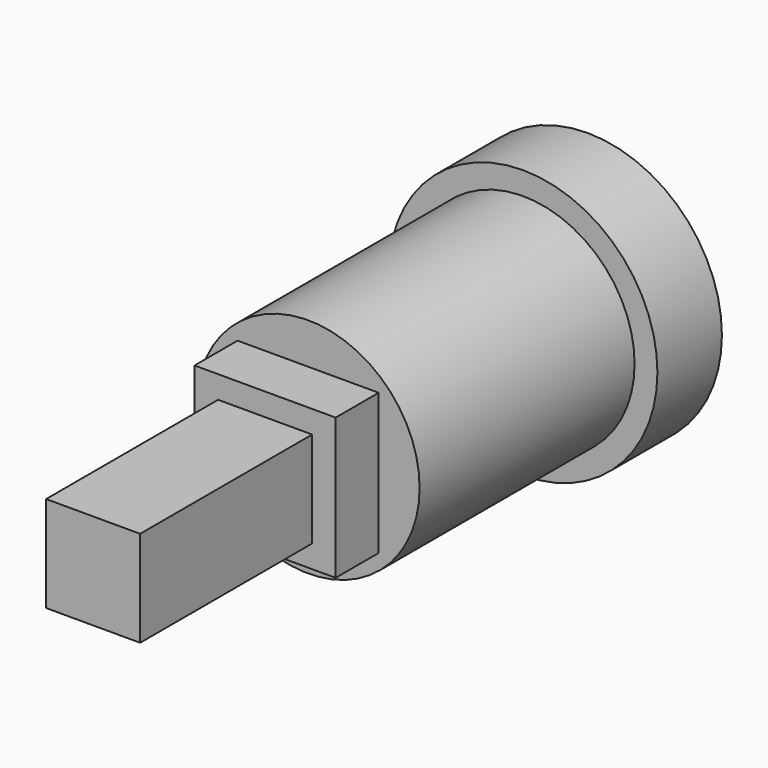
from build123d import *

# Parameters (mm, degrees)
F0_W          = 3.5
F0_H          = 3.5707142143
F0_R          = 1
F1_DEPTH      = 11
F0_W_2        = 5.25
F0_H_2        = 5.25
F2_DEPTH      = 3
F0_R_2        = 4.15
F3_DEPTH      = 8
F3_DEPTH_BACK = 1
F4_DEPTH      = 12
F5_DEPTH      = 4
F6_START      = -9
F0_R_3        = 5
F6_DEPTH      = 3


with BuildPart() as f1:
    # F0 (on Front) → F1 (new body)
    with BuildSketch(Plane.XZ):
        Rectangle(F0_W, F0_H)
        Circle(F0_R, mode=Mode.SUBTRACT)
        Circle(F0_R)
    extrude(amount=F1_DEPTH)

    # F0 (on Front) → F2 (join)
    with BuildSketch(Plane.XZ):
        Rectangle(F0_W_2, F0_H_2)
        with BuildLine():
            ThreePointArc((1.75, 1.7853571071), (2.3048861143, 0.9682458366), (2.5, 0))
            ThreePointArc((2.5, 0), (2.3048861143, -0.9682458366), (1.75, -1.7853571071))
            ThreePointArc((1.75, -1.7853571071), (0, -2.5), (-1.75, -1.7853571071))
            ThreePointArc((-1.75, -1.7853571071), (-2.5, 0), (-1.75, 1.7853571071))
            ThreePointArc((-1.75, 1.7853571071), (0, 2.5), (1.75, 1.7853571071))
        make_face(mode=Mode.SUBTRACT)
        Rectangle(F0_W_2, F0_H_2)
        with BuildLine():
            ThreePointArc((1.75, 1.7853571071), (2.3048861143, 0.9682458366), (2.5, 0))
            ThreePointArc((2.5, 0), (2.3048861143, -0.9682458366), (1.75, -1.7853571071))
            ThreePointArc((1.75, -1.7853571071), (0, -2.5), (-1.75, -1.7853571071))
            ThreePointArc((-1.75, -1.7853571071), (-2.5, 0), (-1.75, 1.7853571071))
            ThreePointArc((-1.75, 1.7853571071), (0, 2.5), (1.75, 1.7853571071))
        make_face(mode=Mode.SUBTRACT)
        Rectangle(F0_W_2, F0_H_2)
        with BuildLine():
            ThreePointArc((1.75, 1.7853571071), (2.3048861143, 0.9682458366), (2.5, 0))
            ThreePointArc((2.5, 0), (2.3048861143, -0.9682458366), (1.75, -1.7853571071))
            ThreePointArc((1.75, -1.7853571071), (0, -2.5), (-1.75, -1.7853571071))
            ThreePointArc((-1.75, -1.7853571071), (-2.5, 0), (-1.75, 1.7853571071))
            ThreePointArc((-1.75, 1.7853571071), (0, 2.5), (1.75, 1.7853571071))
        make_face(mode=Mode.SUBTRACT)
        Rectangle(F0_W_2, F0_H_2)
        with BuildLine():
            ThreePointArc((1.75, 1.7853571071), (2.3048861143, 0.9682458366), (2.5, 0))
            ThreePointArc((2.5, 0), (2.3048861143, -0.9682458366), (1.75, -1.7853571071))
            ThreePointArc((1.75, -1.7853571071), (0, -2.5), (-1.75, -1.7853571071))
            ThreePointArc((-1.75, -1.7853571071), (-2.5, 0), (-1.75, 1.7853571071))
            ThreePointArc((-1.75, 1.7853571071), (0, 2.5), (1.75, 1.7853571071))
        make_face(mode=Mode.SUBTRACT)
        with BuildLine():
            Line((-1.75, -1.7853571071), (-1.75, 1.7853571071))
            ThreePointArc((-1.75, 1.7853571071), (-2.5, 0), (-1.75, -1.7853571071))
        make_face()
        with BuildLine():
            ThreePointArc((1.75, -1.7853571071), (2.3048861143, -0.9682458366), (2.5, 0))
            ThreePointArc((2.5, 0), (2.3048861143, 0.9682458366), (1.75, 1.7853571071))
            Line((1.75, 1.7853571071), (1.75, -1.7853571071))
        make_face()
        with BuildLine():
            ThreePointArc((-1.75, -1.7853571071), (0, -2.5), (1.75, -1.7853571071))
            Line((1.75, -1.7853571071), (-1.75, -1.7853571071))
        make_face()
        with BuildLine():
            Line((-1.75, 1.7853571071), (1.75, 1.7853571071))
            ThreePointArc((1.75, 1.7853571071), (0, 2.5), (-1.75, 1.7853571071))
        make_face()
    extrude(amount=F2_DEPTH)

    # F0 (on Front) → F3 (join, two sides)
    with BuildSketch(Plane.XZ) as f3_sk:
        Circle(F0_R_2)
        Rectangle(F0_W_2, F0_H_2, mode=Mode.SUBTRACT)
    extrude(amount=-F3_DEPTH)
    extrude(f3_sk.sketch, amount=F3_DEPTH_BACK)

    # F0 (on Front) → F4 (join)
    with BuildSketch(Plane.XZ):
        Rectangle(F0_W_2, F0_H_2)
        with BuildLine():
            ThreePointArc((1.75, 1.7853571071), (2.3048861143, 0.9682458366), (2.5, 0))
            ThreePointArc((2.5, 0), (2.3048861143, -0.9682458366), (1.75, -1.7853571071))
            ThreePointArc((1.75, -1.7853571071), (0, -2.5), (-1.75, -1.7853571071))
            ThreePointArc((-1.75, -1.7853571071), (-2.5, 0), (-1.75, 1.7853571071))
            ThreePointArc((-1.75, 1.7853571071), (0, 2.5), (1.75, 1.7853571071))
        make_face(mode=Mode.SUBTRACT)
        Rectangle(F0_W_2, F0_H_2)
        with BuildLine():
            ThreePointArc((1.75, 1.7853571071), (2.3048861143, 0.9682458366), (2.5, 0))
            ThreePointArc((2.5, 0), (2.3048861143, -0.9682458366), (1.75, -1.7853571071))
            ThreePointArc((1.75, -1.7853571071), (0, -2.5), (-1.75, -1.7853571071))
            ThreePointArc((-1.75, -1.7853571071), (-2.5, 0), (-1.75, 1.7853571071))
            ThreePointArc((-1.75, 1.7853571071), (0, 2.5), (1.75, 1.7853571071))
        make_face(mode=Mode.SUBTRACT)
        Rectangle(F0_W_2, F0_H_2)
        with BuildLine():
            ThreePointArc((1.75, 1.7853571071), (2.3048861143, 0.9682458366), (2.5, 0))
            ThreePointArc((2.5, 0), (2.3048861143, -0.9682458366), (1.75, -1.7853571071))
            ThreePointArc((1.75, -1.7853571071), (0, -2.5), (-1.75, -1.7853571071))
            ThreePointArc((-1.75, -1.7853571071), (-2.5, 0), (-1.75, 1.7853571071))
            ThreePointArc((-1.75, 1.7853571071), (0, 2.5), (1.75, 1.7853571071))
        make_face(mode=Mode.SUBTRACT)
        Rectangle(F0_W_2, F0_H_2)
        with BuildLine():
            ThreePointArc((1.75, 1.7853571071), (2.3048861143, 0.9682458366), (2.5, 0))
            ThreePointArc((2.5, 0), (2.3048861143, -0.9682458366), (1.75, -1.7853571071))
            ThreePointArc((1.75, -1.7853571071), (0, -2.5), (-1.75, -1.7853571071))
            ThreePointArc((-1.75, -1.7853571071), (-2.5, 0), (-1.75, 1.7853571071))
            ThreePointArc((-1.75, 1.7853571071), (0, 2.5), (1.75, 1.7853571071))
        make_face(mode=Mode.SUBTRACT)
        Rectangle(F0_W, F0_H)
        Circle(F0_R, mode=Mode.SUBTRACT)
        with BuildLine():
            Line((-1.75, -1.7853571071), (-1.75, 1.7853571071))
            ThreePointArc((-1.75, 1.7853571071), (-2.5, 0), (-1.75, -1.7853571071))
        make_face()
        with BuildLine():
            ThreePointArc((1.75, -1.7853571071), (2.3048861143, -0.9682458366), (2.5, 0))
            ThreePointArc((2.5, 0), (2.3048861143, 0.9682458366), (1.75, 1.7853571071))
            Line((1.75, 1.7853571071), (1.75, -1.7853571071))
        make_face()
        with BuildLine():
            Line((-1.75, 1.7853571071), (1.75, 1.7853571071))
            ThreePointArc((1.75, 1.7853571071), (0, 2.5), (-1.75, 1.7853571071))
        make_face()
        with BuildLine():
            ThreePointArc((-1.75, -1.7853571071), (0, -2.5), (1.75, -1.7853571071))
            Line((1.75, -1.7853571071), (-1.75, -1.7853571071))
        make_face()
    extrude(amount=-F4_DEPTH)

    # F5 (add): a face of the model
    f5_faces = [f1.faces().sort_by_distance(p)[0] for p in [
        (-4.0326202743, 8, 0),
    ]]
    extrude(f5_faces, amount=F5_DEPTH)

    # F0 (on Front) → F6 (join)
    with BuildSketch(Plane.XZ.offset(F6_START)):
        Circle(F0_R_3)
        Circle(F0_R_2, mode=Mode.SUBTRACT)
    extrude(amount=-F6_DEPTH)


solid = f1.part
